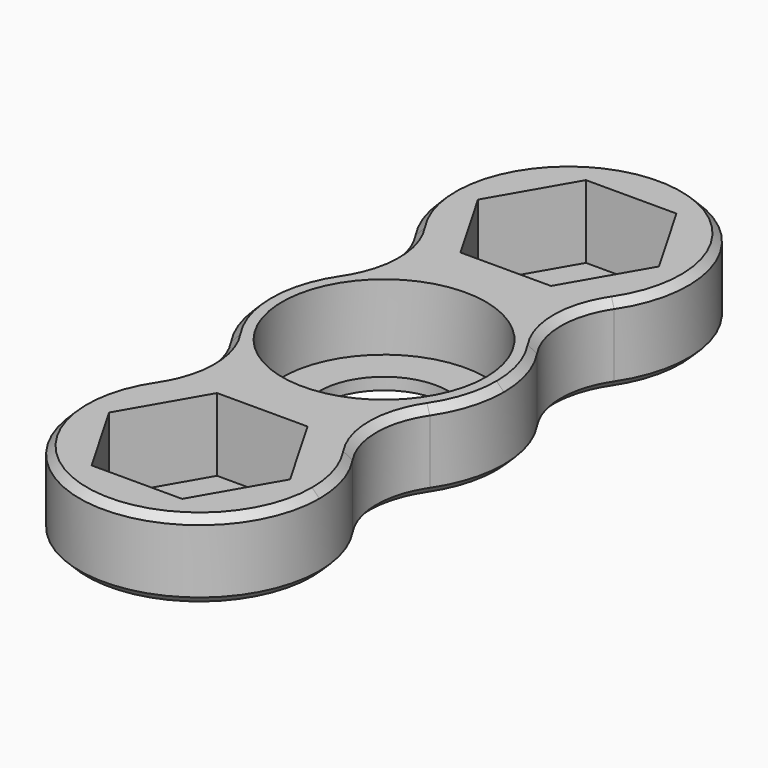
from build123d import *

# Parameters (mm, degrees)
F0_R     = 11.05
F0_R_2   = 7
F1_DEPTH = 0.6
F2_DEPTH = 8.5
F3_R     = 9.3534805389
F4_SIZE  = 0.8
F5_DEPTH = 1.3


with BuildPart() as f1:
    # F0 (on Top) → F1 (new body)
    with BuildSketch(Plane.XY):
        with BuildLine():
            ThreePointArc((-3.5707142143, 12.5), (0, 13), (3.5707142143, 12.5))
            ThreePointArc((3.5707142143, 12.5), (10.3783256064, 17.1711841504), (13, 25))
            ThreePointArc((13, 25), (-7.8288158496, 35.3783256064), (-3.5707142143, 12.5))
        make_face()
        Polygon((4.9074772881, 33.5), (9.8149545762, 25), (4.9074772881, 16.5), (-4.9074772881, 16.5), (-9.8149545762, 25), (-4.9074772881, 33.5), align=None, mode=Mode.SUBTRACT)
        with BuildLine():
            ThreePointArc((13, -25), (10.3783256064, -17.1711841504), (3.5707142143, -12.5))
            ThreePointArc((3.5707142143, -12.5), (0, -13), (-3.5707142143, -12.5))
            ThreePointArc((-3.5707142143, -12.5), (-7.8288158496, -35.3783256064), (13, -25))
        make_face()
        Polygon((-9.8149545762, -25), (-4.9074772881, -16.5), (4.9074772881, -16.5), (9.8149545762, -25), (4.9074772881, -33.5), (-4.9074772881, -33.5), align=None, mode=Mode.SUBTRACT)
        with BuildLine():
            ThreePointArc((3.5707142143, -12.5), (10.3783256064, -7.8288158496), (13, 0))
            ThreePointArc((13, 0), (10.3783256064, 7.8288158496), (3.5707142143, 12.5))
            ThreePointArc((3.5707142143, 12.5), (0, 12), (-3.5707142143, 12.5))
            ThreePointArc((-3.5707142143, 12.5), (-13, 0), (-3.5707142143, -12.5))
            ThreePointArc((-3.5707142143, -12.5), (0, -12), (3.5707142143, -12.5))
        make_face()
        Circle(F0_R, mode=Mode.SUBTRACT)
        Circle(F0_R)
        Circle(F0_R_2, mode=Mode.SUBTRACT)
        Polygon((4.9074772881, 16.5), (9.8149545762, 25), (4.9074772881, 33.5), (-4.9074772881, 33.5), (-9.8149545762, 25), (-4.9074772881, 16.5), align=None)
        Polygon((4.9074772881, -16.5), (-4.9074772881, -16.5), (-9.8149545762, -25), (-4.9074772881, -33.5), (4.9074772881, -33.5), (9.8149545762, -25), align=None)
        with BuildLine():
            ThreePointArc((-3.5707142143, 12.5), (0, 12), (3.5707142143, 12.5))
            ThreePointArc((3.5707142143, 12.5), (0, 13), (-3.5707142143, 12.5))
        make_face()
        with BuildLine():
            ThreePointArc((-3.5707142143, -12.5), (0, -13), (3.5707142143, -12.5))
            ThreePointArc((3.5707142143, -12.5), (0, -12), (-3.5707142143, -12.5))
        make_face()
    extrude(amount=F1_DEPTH)

    # F0 (on Top) → F2 (join)
    with BuildSketch(Plane.XY):
        with BuildLine():
            ThreePointArc((-3.5707142143, 12.5), (0, 13), (3.5707142143, 12.5))
            ThreePointArc((3.5707142143, 12.5), (10.3783256064, 17.1711841504), (13, 25))
            ThreePointArc((13, 25), (-7.8288158496, 35.3783256064), (-3.5707142143, 12.5))
        make_face()
        Polygon((4.9074772881, 33.5), (9.8149545762, 25), (4.9074772881, 16.5), (-4.9074772881, 16.5), (-9.8149545762, 25), (-4.9074772881, 33.5), align=None, mode=Mode.SUBTRACT)
        with BuildLine():
            ThreePointArc((3.5707142143, -12.5), (10.3783256064, -7.8288158496), (13, 0))
            ThreePointArc((13, 0), (10.3783256064, 7.8288158496), (3.5707142143, 12.5))
            ThreePointArc((3.5707142143, 12.5), (0, 12), (-3.5707142143, 12.5))
            ThreePointArc((-3.5707142143, 12.5), (-13, 0), (-3.5707142143, -12.5))
            ThreePointArc((-3.5707142143, -12.5), (0, -12), (3.5707142143, -12.5))
        make_face()
        Circle(F0_R, mode=Mode.SUBTRACT)
        with BuildLine():
            ThreePointArc((-3.5707142143, 12.5), (0, 12), (3.5707142143, 12.5))
            ThreePointArc((3.5707142143, 12.5), (0, 13), (-3.5707142143, 12.5))
        make_face()
        with BuildLine():
            ThreePointArc((-3.5707142143, -12.5), (0, -13), (3.5707142143, -12.5))
            ThreePointArc((3.5707142143, -12.5), (0, -12), (-3.5707142143, -12.5))
        make_face()
        with BuildLine():
            ThreePointArc((13, -25), (10.3783256064, -17.1711841504), (3.5707142143, -12.5))
            ThreePointArc((3.5707142143, -12.5), (0, -13), (-3.5707142143, -12.5))
            ThreePointArc((-3.5707142143, -12.5), (-7.8288158496, -35.3783256064), (13, -25))
        make_face()
        Polygon((-9.8149545762, -25), (-4.9074772881, -16.5), (4.9074772881, -16.5), (9.8149545762, -25), (4.9074772881, -33.5), (-4.9074772881, -33.5), align=None, mode=Mode.SUBTRACT)
    extrude(amount=F2_DEPTH)

    # F3
    f3_edges = [f1.edges().sort_by_distance(p)[0] for p in [
        (3.570714, -12.5, 4.25),
        (3.570714, 12.5, 4.25),
        (-3.570714, 12.5, 4.25),
        (-3.570714, -12.5, 4.25),
    ]]
    fillet(f3_edges, radius=F3_R)

    # F4
    f4_edges = [f1.edges().sort_by_distance(p)[0] for p in [
        (0, -38, 8.5),
        (9.178332, -12.5, 8.5),
        (13, 0, 8.5),
        (9.178332, 12.5, 8.5),
        (0, 38, 8.5),
        (-9.178332, 12.5, 8.5),
        (-13, 0, 8.5),
        (-9.178332, -12.5, 8.5),
        (0, -38, 0),
        (-9.178332, -12.5, 0),
        (-13, 0, 0),
        (-9.178332, 12.5, 0),
        (0, 38, 0),
        (9.178332, 12.5, 0),
        (13, 0, 0),
        (9.178332, -12.5, 0),
    ]]
    chamfer(f4_edges, length=F4_SIZE)

    # F0 (on Top) → F5 (join)
    with BuildSketch(Plane.XY):
        Circle(F0_R)
        Circle(F0_R_2, mode=Mode.SUBTRACT)
    extrude(amount=F5_DEPTH)


solid = f1.part
